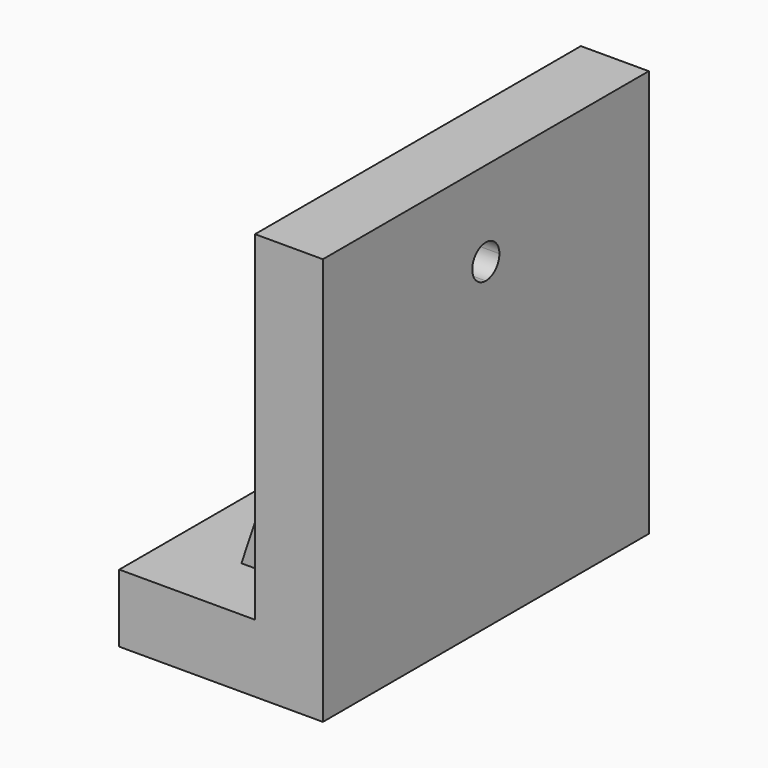
from build123d import *

# Parameters (mm, degrees)
F1_DEPTH      = 76.2
F3_DEPTH      = 25.4
F3_DEPTH_BACK = 25.4
F5_START      = -19.05
F4_R          = 15.875
F5_DEPTH      = 15.494
F7_DEPTH      = 25.908
F10_DEPTH     = 6.35


with BuildPart() as f1:
    # F0 (on Front) → F1 (new body, symmetric)
    with BuildSketch(Plane.XZ):
        Polygon((-76.2, 0), (0, 0), (0, 152.4), (-25.4, 152.4), (-25.4, 25.4), (-76.2, 25.4), align=None)
    extrude(amount=F1_DEPTH, both=True)

    # F2 (on Right) → F3 (cut, two sides)
    with BuildSketch(Plane.YZ) as f3_sk:
        with BuildLine():
            ThreePointArc((0, 114.3), (4.4901280605, 116.1598719395), (6.35, 120.65))
            ThreePointArc((6.35, 120.65), (-4.4901280605, 125.1401280605), (0, 114.3))
        make_face()
    extrude(amount=-F3_DEPTH, mode=Mode.SUBTRACT)
    extrude(f3_sk.sketch, amount=F3_DEPTH_BACK, mode=Mode.SUBTRACT)

    # F4 (on Right) → F5 (cut)
    with BuildSketch(Plane.YZ.offset(F5_START)):
        with Locations((0, 120.65)):
            Circle(F4_R)
    extrude(amount=-F5_DEPTH, mode=Mode.SUBTRACT)

    # F6 (on Top) → F7 (cut, symmetric)
    with BuildSketch(Plane.XY):
        with BuildLine():
            Line((-76.2, 12.7), (-76.2, 0))
            Line((-76.2, 0), (-76.2, -12.7))
            Line((-76.2, -12.7), (-63.5, -12.7))
            ThreePointArc((-63.5, -12.7), (-50.8, 0), (-63.5, 12.7))
            Line((-63.5, 12.7), (-76.2, 12.7))
        make_face()
    extrude(amount=F7_DEPTH, both=True, mode=Mode.SUBTRACT)

    # F9 (on offset) → F10 (join, symmetric)
    with BuildSketch(Plane.XZ.offset(44.45)):
        Polygon((-50.8, 25.4), (-25.4, 25.4), (-25.4, 101.6), align=None)
    extrude(amount=F10_DEPTH, both=True)


solid = f1.part
